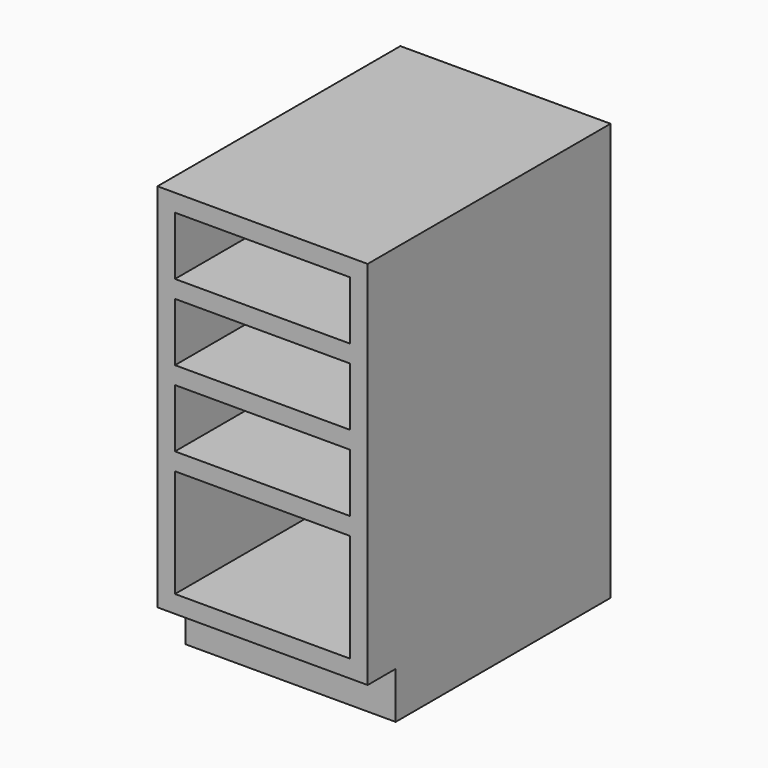
from build123d import *

# Parameters (mm, degrees)
F1_DEPTH = 457.2
F2_W     = 381
F2_H     = 127
F2_H_2   = 234.95
F3_DEPTH = 596.9


with BuildPart() as f1:
    # F0 (on Right) → F1 (new body)
    with BuildSketch(Plane.YZ):
        Polygon((-584.2, 0), (0, 0), (0, 908.05), (-660.4, 908.05), (-660.4, 101.6), (-584.2, 101.6), align=None)
    extrude(amount=F1_DEPTH)

    # F2 (on face) → F3 (cut)
    with BuildSketch(Plane.XZ.offset(660.4)):
        with Locations((228.6, 806.45)):
            Rectangle(F2_W, F2_H)
        with Locations((228.6, 641.35)):
            Rectangle(F2_W, F2_H)
        with Locations((228.6, 476.25)):
            Rectangle(F2_W, F2_H)
        with Locations((228.6, 257.175)):
            Rectangle(F2_W, F2_H_2)
    extrude(amount=-F3_DEPTH, mode=Mode.SUBTRACT)


solid = f1.part
